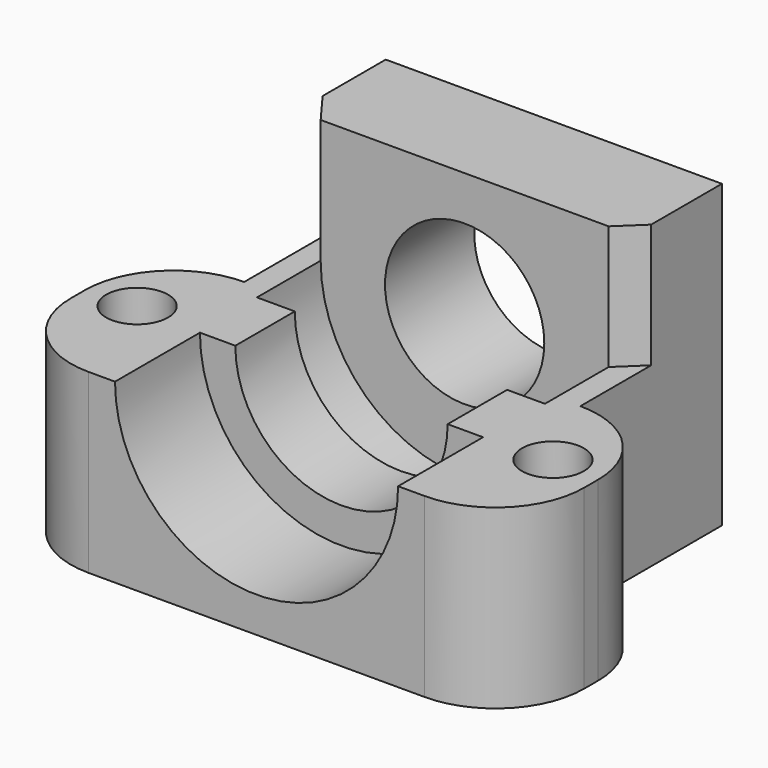
from build123d import *

# Parameters (mm, degrees)
F0_W      = 25
F0_H      = 11
F1_DEPTH  = 10
F2_R      = 8
F3_DEPTH  = 6
F4_R      = 6
F5_DEPTH  = 4.2
F6_W      = 11
F6_H      = 10
F7_DEPTH  = 2
F8_W      = 11
F8_H      = 10
F9_DEPTH  = 2
F10_R     = 5
F11_R     = 1.75
F12_DEPTH = 25
F9_FACE_W = 19
F9_FACE_H = 10
F13_DEPTH = 10
F14_R     = 8.137493
F15_DEPTH = 4.5
F17_DEPTH = 7
F18_R     = 4.5
F19_DEPTH = 25


with BuildPart() as f1:
    # F0 (on Top) → F1 (new body)
    with BuildSketch(Plane.XY):
        with Locations((12.5, 5.5)):
            Rectangle(F0_W, F0_H)
    extrude(amount=F1_DEPTH)

    # F2 (on face) → F3 (cut)
    with BuildSketch(Plane.XZ):
        with Locations((12.5, 10)):
            Circle(F2_R)
    extrude(amount=-F3_DEPTH, mode=Mode.SUBTRACT)

    # F4 (on face) → F5 (cut)
    with BuildSketch(Plane.XZ.offset(-6)):
        with Locations((12.5, 10)):
            Circle(F4_R)
    extrude(amount=-F5_DEPTH, mode=Mode.SUBTRACT)

    # F6 (on face) → F7 (join)
    with BuildSketch(Plane(origin=(0, 0, 0), x_dir=(0, -1, 0), z_dir=(-1, 0, 0))):
        with Locations((-5.5, 5)):
            Rectangle(F6_W, F6_H)
    extrude(amount=F7_DEPTH)

    # F8 (on face) → F9 (join)
    with BuildSketch(Plane.YZ.offset(25)):
        with Locations((5.5, 5)):
            Rectangle(F8_W, F8_H)
    extrude(amount=F9_DEPTH)

    # F10
    f10_edges = [f1.edges().sort_by_distance(p)[0] for p in [
        (27, 11, 5),
        (27, 0, 5),
        (-2, 11, 5),
        (-2, 0, 5),
    ]]
    fillet(f10_edges, radius=F10_R)

    # F11 (on face) → F12 (cut)
    with BuildSketch(Plane.XY.offset(10)):
        with Locations((0.75, 6.25)):
            Circle(F11_R)
        with Locations((24.25, 6.25)):
            Circle(F11_R)
    extrude(amount=-F12_DEPTH, mode=Mode.SUBTRACT)

    # F9_face (on face) → F13 (join)
    with BuildSketch(Plane(origin=(12.5, 11, 5), x_dir=(-1, 0, 0), z_dir=(0, 1, 0))):
        Rectangle(F9_FACE_W, F9_FACE_H)
    extrude(amount=F13_DEPTH)

    # F14 (on face) → F15 (cut)
    with BuildSketch(Plane.XZ.offset(-10.2)):
        with Locations((12.5, 10)):
            Circle(F14_R)
    extrude(amount=-F15_DEPTH, mode=Mode.SUBTRACT)

    # F16 (on face) → F17 (join)
    with BuildSketch(Plane.XY.offset(10)):
        Polygon((3, 16.541481), (4.362507, 14.7), (20.637493, 14.7), (22, 16), (22, 21), (3, 21), align=None)
    extrude(amount=F17_DEPTH)

    # F18 (on face) → F19 (cut)
    with BuildSketch(Plane.XZ.offset(-14.7)):
        with Locations((12.5, 10)):
            Circle(F18_R)
    extrude(amount=-F19_DEPTH, mode=Mode.SUBTRACT)


solid = f1.part
